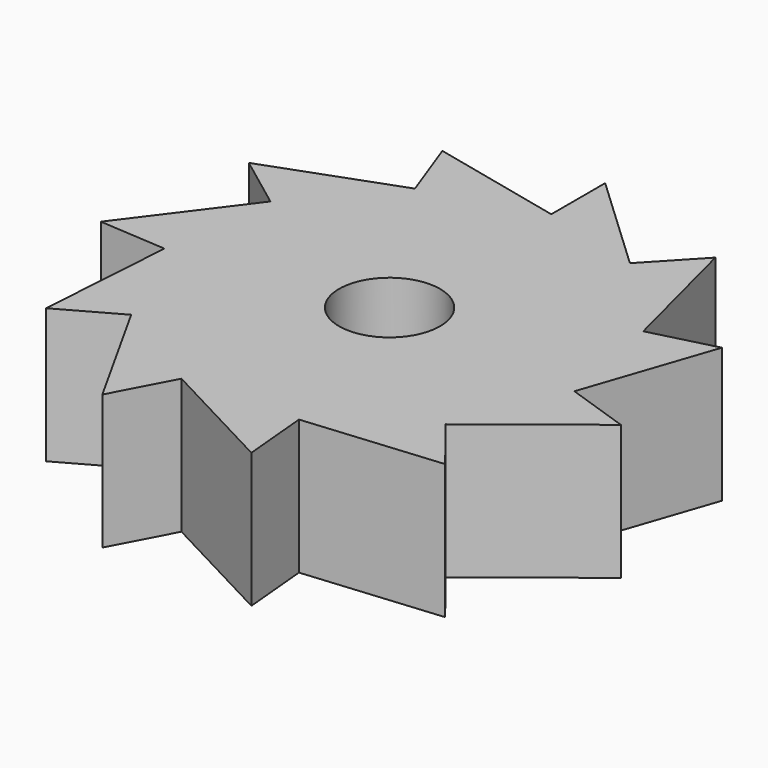
from build123d import *

# Parameters (mm, degrees)
F0_R     = 9.525
F1_DEPTH = 12.7


with BuildPart() as f1:
    # F0 (on Top) → F1 (new body, symmetric)
    with BuildSketch(Plane.XY):
        with BuildLine():
            ThreePointArc((0, 38.1), (9.715033, 36.840577), (18.787791, 33.145571))
            Line((18.787791, 33.145571), (0, 50.8))
            Line((0, 50.8), (0, 38.1))
        make_face()
        with BuildLine():
            ThreePointArc((-20.773422, 31.938612), (-10.838983, 36.525696), (-0.010502, 38.099999))
            Line((-0.010502, 38.099999), (-25.138711, 43.864812))
            Line((-25.138711, 43.864812), (-20.773422, 31.938612))
        make_face()
        with BuildLine():
            ThreePointArc((-34.823787, 15.45684), (-28.994389, 24.717107), (-20.773422, 31.938612))
            Line((-20.773422, 31.938612), (-44.983609, 23.077076))
            Line((-44.983609, 23.077076), (-34.823787, 15.45684))
        make_face()
        with BuildLine():
            ThreePointArc((-37.621473, -6.019531), (-37.780783, 4.921632), (-34.823787, 15.45684))
            Line((-34.823787, 15.45684), (-50.292867, -5.1676))
            Line((-50.292867, -5.1676), (-37.621473, -6.019531))
        make_face()
        with BuildLine():
            Line((-39.350893, -31.74246), (-28.26246, -25.550799))
            ThreePointArc((-28.26246, -25.550799), (-34.358999, -16.46418), (-37.621473, -6.019531))
            Line((-37.621473, -6.019531), (-39.350893, -31.74246))
        make_face()
        with BuildLine():
            Line((-15.693389, -48.060318), (-9.770946, -36.825787))
            ThreePointArc((-9.770946, -36.825787), (-19.834726, -32.529889), (-28.26246, -25.550799))
            Line((-28.26246, -25.550799), (-15.693389, -48.060318))
        make_face()
        with BuildLine():
            Line((13.03515, -48.848346), (11.877897, -36.201182))
            ThreePointArc((11.877897, -36.201182), (1.098792, -38.084152), (-9.770946, -36.825787))
            Line((-9.770946, -36.825787), (13.03515, -48.848346))
        make_face()
        with BuildLine():
            Line((37.55164, -33.851957), (29.688458, -23.878975))
            ThreePointArc((29.688458, -23.878975), (21.677169, -31.332257), (11.877897, -36.201182))
            Line((11.877897, -36.201182), (37.55164, -33.851957))
        make_face()
        with BuildLine():
            Line((49.933612, -7.916716), (37.906115, -3.838811))
            ThreePointArc((37.906115, -3.838811), (35.251363, -14.455151), (29.688458, -23.878975))
            Line((29.688458, -23.878975), (49.933612, -7.916716))
        make_face()
        with BuildLine():
            ThreePointArc((33.881408, 17.425849), (37.030336, 8.964607), (38.1, 0))
            ThreePointArc((38.1, 0), (38.051498, -1.921852), (37.906115, -3.838811))
            Line((37.906115, -3.838811), (46.184261, 20.577008))
            Line((46.184261, 20.577008), (33.881408, 17.425849))
        make_face()
        with BuildLine():
            ThreePointArc((18.787791, 33.145571), (27.482514, 26.387903), (33.881408, 17.425849))
            Line((33.881408, 17.425849), (27.484554, 42.400641))
            Line((27.484554, 42.400641), (18.787791, 33.145571))
        make_face()
        with BuildLine():
            ThreePointArc((37.906115, -3.838811), (38.051498, -1.921852), (38.1, 0))
            ThreePointArc((38.1, 0), (37.030336, 8.964607), (33.881408, 17.425849))
            ThreePointArc((33.881408, 17.425849), (27.482514, 26.387903), (18.787791, 33.145571))
            ThreePointArc((18.787791, 33.145571), (9.715033, 36.840577), (0, 38.1))
            ThreePointArc((0, 38.1), (-0.005251, 38.1), (-0.010502, 38.099999))
            ThreePointArc((-0.010502, 38.099999), (-10.838983, 36.525696), (-20.773422, 31.938612))
            ThreePointArc((-20.773422, 31.938612), (-28.994389, 24.717107), (-34.823787, 15.45684))
            ThreePointArc((-34.823787, 15.45684), (-37.780783, 4.921632), (-37.621473, -6.019531))
            ThreePointArc((-37.621473, -6.019531), (-34.358999, -16.46418), (-28.26246, -25.550799))
            ThreePointArc((-28.26246, -25.550799), (-19.834726, -32.529889), (-9.770946, -36.825787))
            ThreePointArc((-9.770946, -36.825787), (1.098792, -38.084152), (11.877897, -36.201182))
            ThreePointArc((11.877897, -36.201182), (21.677169, -31.332257), (29.688458, -23.878975))
            ThreePointArc((29.688458, -23.878975), (35.251363, -14.455151), (37.906115, -3.838811))
        make_face()
        Circle(F0_R, mode=Mode.SUBTRACT)
    extrude(amount=F1_DEPTH, both=True)


solid = f1.part
